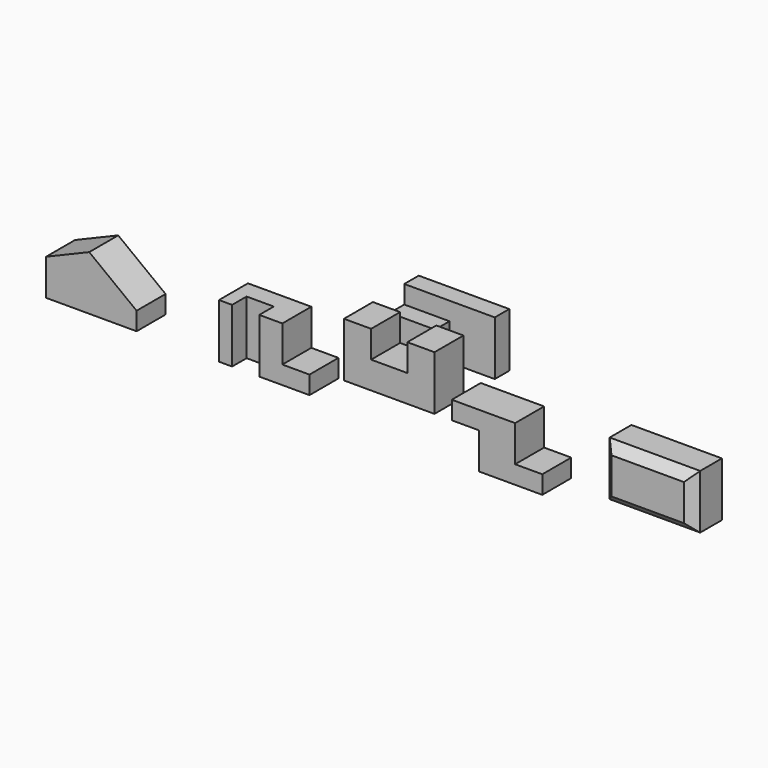
from build123d import *

# Parameters (mm, degrees)
F1_DEPTH  = 101.6
F3_DEPTH  = 254
F4_W      = 50.8
F4_H      = 101.6
F5_DEPTH  = 127
F6_W      = 50.8
F6_H      = 152.4
F7_DEPTH  = 101.6
F8_W      = 76.2
F8_H      = 50.8
F9_DEPTH  = 152.4
F11_DEPTH = 101.6
F13_DEPTH = 101.6
F14_W     = 254
F14_H     = 152.4
F15_DEPTH = 101.6
F16_SIZE  = 25.4


with BuildPart() as f1:
    # F0 (on Front) → F1 (new body)
    with BuildSketch(Plane.XZ):
        Polygon((0, 152.4), (0, 0), (254, 0), (254, 152.4), (177.8, 152.4), (177.8, 76.2), (76.2, 76.2), (76.2, 152.4), align=None)
    extrude(amount=-F1_DEPTH)


with BuildPart() as f3:
    # F2 (on Right) → F3 (new body)
    with BuildSketch(Plane.YZ):
        Polygon((160.685088, 101.6), (160.685088, 0), (262.285088, 0), (262.285088, 152.4), (211.485088, 152.4), (211.485088, 101.6), align=None)
    extrude(amount=F3_DEPTH)

    # F4 (on face) → F5 (cut)
    with BuildSketch(Plane.YZ.offset(254)):
        with Locations((186.085088, 50.8)):
            Rectangle(F4_W, F4_H)
    extrude(amount=-F5_DEPTH, mode=Mode.SUBTRACT)


with BuildPart() as f7:
    # F6 (on Front) → F7 (new body)
    with BuildSketch(Plane.XZ):
        Polygon((-218.613389, 152.4), (-218.613389, 0), (-15.413389, 0), (-15.413389, 50.8), (-91.613389, 50.8), (-91.613389, 152.4), align=None)
        with Locations((-244.013389, 76.2)):
            Rectangle(F6_W, F6_H)
    extrude(amount=F7_DEPTH)

    # F8 (on face) → F9 (cut)
    with BuildSketch(Plane.XY.offset(152.4)):
        with Locations((-194.488992, -76.2)):
            Rectangle(F8_W, F8_H)
    extrude(amount=-F9_DEPTH, mode=Mode.SUBTRACT)


with BuildPart() as f11:
    # F10 (on Front) → F11 (new body)
    with BuildSketch(Plane.XZ):
        Polygon((302.495933, 50.8), (302.495933, 0), (378.695933, 0), (378.695933, -101.6), (556.495933, -101.6), (556.495933, -50.8), (480.295933, -50.8), (480.295933, 50.8), align=None)
    extrude(amount=-F11_DEPTH)


with BuildPart() as f13:
    # F12 (on Front) → F13 (new body)
    with BuildSketch(Plane.XZ):
        Polygon((-754.576748, 101.6), (-754.576748, 0), (-500.576748, 0), (-500.576748, 50.8), (-633.438297, 152.4), align=None)
    extrude(amount=F13_DEPTH)


with BuildPart() as f15:
    # F14 (on Front) → F15 (new body)
    with BuildSketch(Plane.XZ):
        with Locations((933.560318, 76.2)):
            Rectangle(F14_W, F14_H)
    extrude(amount=F15_DEPTH)

    # F16
    f16_edges = [f15.edges().sort_by_distance(p)[0] for p in [
        (806.560318, -101.6, 76.2),
        (933.560318, -101.6, 0),
        (1060.560318, -101.6, 76.2),
        (933.560318, -101.6, 152.4),
    ]]
    chamfer(f16_edges, length=F16_SIZE)


solid = Compound([f1.part, f3.part, f7.part, f11.part, f13.part, f15.part])
